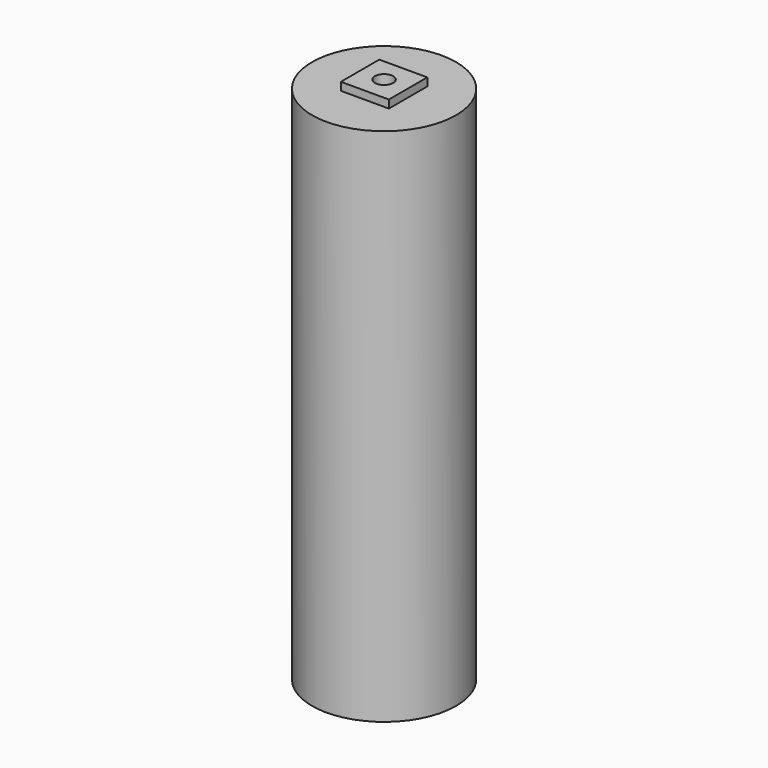
from build123d import *

# Parameters (mm, degrees)
SKETCH_R        = 9
PAD_DEPTH       = 65
SKETCH001_W     = 6
SKETCH001_H     = 6
PAD001_DEPTH    = 1
SKETCH002_R     = 1.15
POCKET_DEPTH    = 5
SKETCH003_W     = 6
SKETCH003_H     = 6
PAD002_DEPTH    = 1
SKETCH004_R     = 1.15
POCKET001_DEPTH = 5


with BuildPart() as part:
    # Sketch → Pad (new body)
    with BuildSketch(Plane.XY):
        Circle(SKETCH_R)
    extrude(amount=PAD_DEPTH)

    # Sketch001 (on Face3 of Pad) → Pad001 (join)
    with BuildSketch(Plane.XY.offset(65)):
        Rectangle(SKETCH001_W, SKETCH001_H)
    extrude(amount=PAD001_DEPTH)

    # Sketch002 (on Face8 of Pad001) → Pocket (cut)
    with BuildSketch(Plane.XY.offset(66)):
        Circle(SKETCH002_R)
    extrude(amount=-POCKET_DEPTH, mode=Mode.SUBTRACT)

    # Sketch003 (on Face2 of Pocket) → Pad002 (join)
    with BuildSketch(Plane(origin=(0, 0, 0), x_dir=(1, 0, 0), z_dir=(0, 0, -1))):
        Rectangle(SKETCH003_W, SKETCH003_H)
    extrude(amount=PAD002_DEPTH)

    # Sketch004 (on Face12 of Pad002) → Pocket001 (cut)
    with BuildSketch(Plane(origin=(0, 0, -1), x_dir=(1, 0, 0), z_dir=(0, 0, -1))):
        Circle(SKETCH004_R)
    extrude(amount=-POCKET001_DEPTH, mode=Mode.SUBTRACT)


solid = part.part
